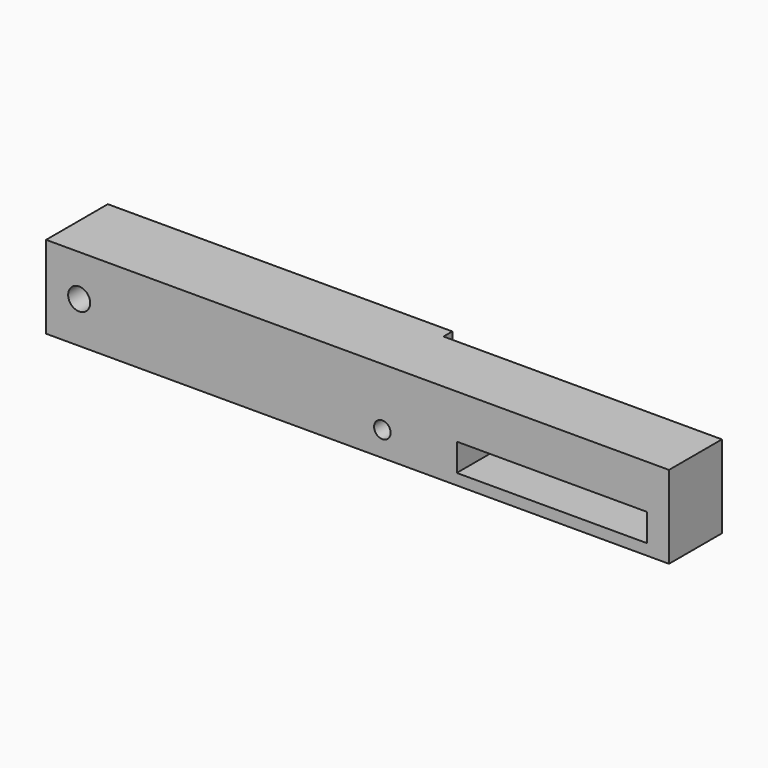
from build123d import *

# Parameters (mm, degrees)
F0_W      = 88
F0_H      = 15
F1_DEPTH  = 14
F3_DEPTH  = 24.5
F4_W      = 113
F4_H      = 15
F5_DEPTH  = 12
F6_W      = 34.5
F6_H      = 5
F7_DEPTH  = 25
F8_R      = 1.5
F9_DEPTH  = 25
F10_W     = 17.581136
F10_H     = 6
F11_DEPTH = 3
F12_R     = 2
F13_R     = 2
F14_DEPTH = 25


with BuildPart() as f1:
    # F0 (on Front) → F1 (new body)
    with BuildSketch(Plane.XZ):
        Rectangle(F0_W, F0_H)
    extrude(amount=F1_DEPTH)

    # F2 (on face) → F3 (cut)
    with BuildSketch(Plane.XZ.offset(14)):
        Polygon((-33.5, 1.5), (-33.5, -7.5), (44, -7.5), (44, 7.5), (18.5, 7.5), (18.5, 1.5), align=None)
    extrude(amount=-F3_DEPTH, mode=Mode.SUBTRACT)

    # F4 (on face) → F5 (join)
    with BuildSketch(Plane.XZ.offset(14)):
        with Locations((12.5, 0)):
            Rectangle(F4_W, F4_H)
    extrude(amount=-F5_DEPTH)

    # F6 (on face) → F7 (cut)
    with BuildSketch(Plane(origin=(0, -2, 0), x_dir=(-1, 0, 0), z_dir=(0, 1, 0))):
        with Locations((-47.75, -3)):
            Rectangle(F6_W, F6_H)
    extrude(amount=-F7_DEPTH, mode=Mode.SUBTRACT)

    # F8 (on face) → F9 (cut)
    with BuildSketch(Plane.XZ.offset(14)):
        with Locations((17, -3)):
            Circle(F8_R)
    extrude(amount=-F9_DEPTH, mode=Mode.SUBTRACT)

    # F10 (on face) → F11 (cut)
    with BuildSketch(Plane(origin=(0, -2, 0), x_dir=(-1, 0, 0), z_dir=(0, 1, 0))):
        with Locations((-17, -3)):
            Rectangle(F10_W, F10_H)
    extrude(amount=-F11_DEPTH, mode=Mode.SUBTRACT)

    # F12
    f12_edges = [f1.edges().sort_by_distance(p)[0] for p in [
        (8.209432, -3.5, 0),
        (8.209432, -3.5, -6),
        (25.790568, -3.5, 0),
        (25.790568, -3.5, -6),
    ]]
    fillet(f12_edges, radius=F12_R)

    # F13 (on face) → F14 (cut)
    with BuildSketch(Plane.XZ.offset(14)):
        with Locations((-38, 0)):
            Circle(F13_R)
    extrude(amount=-F14_DEPTH, mode=Mode.SUBTRACT)


solid = f1.part
